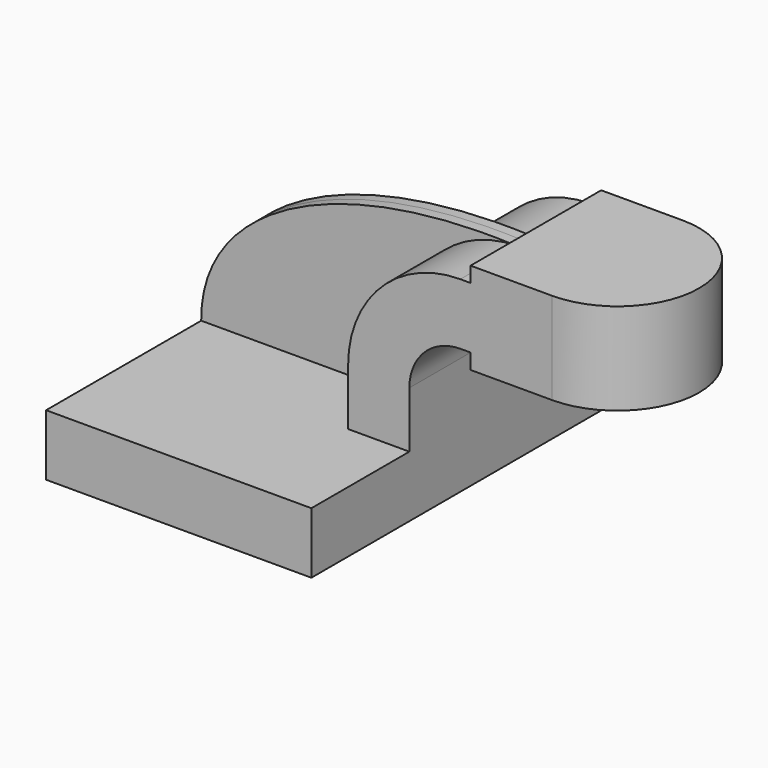
from build123d import *

# Parameters (mm, degrees)
F1_DEPTH = 63.5
F0_W     = 25.4
F0_H     = 19.05
F0_H_2   = 4.7498
F0_H_3   = 4.7752
F2_DEPTH = 25.4
F3_DEPTH = 3.175


with BuildPart() as f1:
    # F0 (on Front) → F1 (new body, symmetric)
    with BuildSketch(Plane.XZ):
        Polygon((-41.275, -9.525), (41.275, -9.525), (41.275, 9.525), (22.225, 9.525), (-41.275, 9.525), align=None)
    extrude(amount=F1_DEPTH, both=True)

    # F0 (on Front) → F2 (join, symmetric)
    with BuildSketch(Plane.XZ):
        with BuildLine():
            Line((22.225, 9.525), (41.275, 9.525))
            Line((41.275, 9.525), (41.275, 27.0002))
            ThreePointArc((41.275, 27.0002), (45.9246798487, 38.2255201513), (57.15, 42.8752))
            Line((57.15, 42.8752), (60.325, 42.8752))
            Line((60.325, 42.8752), (60.325, 61.9252))
            Line((60.325, 61.9252), (57.15, 61.9252))
            ThreePointArc((57.15, 61.9252), (32.4542956671, 51.6959043329), (22.225, 27.0002))
            Line((22.225, 27.0002), (22.225, 9.525))
        make_face()
        with Locations((73.025, 52.4002)):
            Rectangle(F0_W, F0_H)
        with Locations((73.025, 64.3001)):
            Rectangle(F0_W, F0_H_2)
        with Locations((73.025, 40.4876)):
            Rectangle(F0_W, F0_H_3)
    extrude(amount=F2_DEPTH, both=True)

    # F0 (on Front) → F3 (join, symmetric)
    with BuildSketch(Plane.XZ):
        with BuildLine():
            add(Edge.make_bspline(
                [(-41.275, 9.525), (-41.6004359722, 42.6694862545), (0, 64.4797682762), (57.15, 61.9252)],
                knots=[0, 0, 0, 0, 111.5045361635, 111.5045361635, 111.5045361635, 111.5045361635], degree=3))
            Line((-41.275, 9.525), (22.225, 9.525))
            Line((22.225, 9.525), (22.225, 27.0002))
            ThreePointArc((22.225, 27.0002), (32.4542956671, 51.6959043329), (57.15, 61.9252))
        make_face()
    extrude(amount=F3_DEPTH, both=True)

    # F0 (on Front) → F4 (revolve)
    with BuildSketch(Plane.XZ):
        Polygon((85.725, 66.675), (85.725, 61.9252), (85.725, 42.8752), (85.725, 38.1), (111.125, 38.1), (111.125, 66.675), align=None)
    revolve(axis=Axis((85.725, 0, 52.3875), (0, 0, 1)))


solid = f1.part
